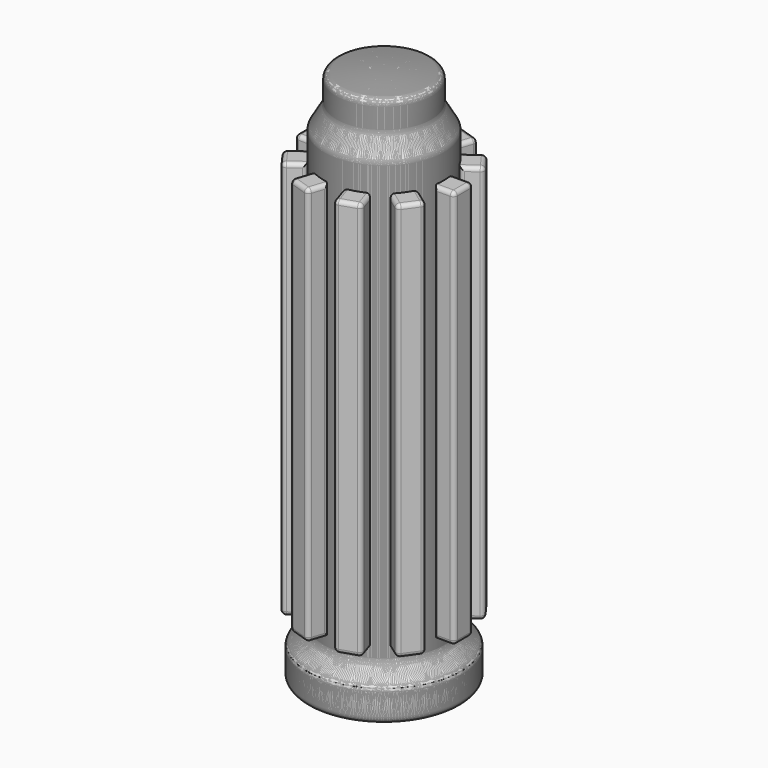
from build123d import *

# Parameters (mm, degrees)
F2_R     = 1.6
F4_W     = 6
F4_H     = 100
F6_R     = 1
F7_COUNT = 10


with BuildPart() as f1:
    # F0 (on Front) → F1 (revolve)
    with BuildSketch(Plane.XZ):
        with BuildLine():
            ThreePointArc((11.8991128484, 133.9508111483), (5.9726393626, 134.7371949452), (0, 135))
            Line((0, 135), (0, 125))
            Line((0, 125), (10.75, 125))
            Line((10.75, 125), (10.75, -0.0073659714))
            Line((10.75, -0.0073659714), (19.325, -0.0073659714))
            Line((19.325, -0.0073659714), (19.325, 7.9926340286))
            Line((19.325, 7.9926340286), (15, 11.6217399335))
            Line((15, 11.6217399335), (15, 121.6217399335))
            Line((15, 121.6217399335), (11.8991128484, 126.9926340286))
            Line((11.8991128484, 126.9926340286), (11.8991128484, 133.9508111483))
        make_face()
    revolve(axis=Axis((0, 0, 105.403020978), (0, 0, 1)))

    # F2
    f2_edges = [f1.edges().sort_by_distance(p)[0] for p in [
        (-11.899113, 0, 133.950811),
        (-15, 0, 121.62174),
        (-11.899113, 0, 126.992634),
        (-15, 0, 11.62174),
        (-19.325, 0, 7.992634),
        (-19.325, 0, -0.007366),
    ]]
    fillet(f2_edges, radius=F2_R)


with BuildPart() as f5:
    # F4 (on offset) → F5 (new body, up to the next surface of F1)
    with BuildSketch(Plane.YZ.offset(20)):
        with Locations((0, 64.9926340286)):
            Rectangle(F4_W, F4_H)
    extrude(until=Until.NEXT, target=f1.part, dir=(-1, 0, 0))

    # F6
    f6_edges = [f5.edges().sort_by_distance(p)[0] for p in [
        (20, 3, 64.992634),
        (20, 0, 114.992634),
        (20, -3, 64.992634),
        (20, 0, 14.992634),
        (17.348469, 3, 114.992634),
        (14.696938, 3, 64.992634),
        (17.348469, 3, 14.992634),
        (17.348469, -3, 14.992634),
        (14.696938, -3, 64.992634),
        (17.348469, -3, 114.992634),
    ]]
    fillet(f6_edges, radius=F6_R)


with BuildPart() as f7_1:
    # F7: instance of F5
    add(f5.part.rotate(Axis((0, 0, 11.6217399335), (0, 0, -1)), 1 * 360 / F7_COUNT))


with BuildPart() as f7_2:
    # F7: instance of F5
    add(f5.part.rotate(Axis((0, 0, 11.6217399335), (0, 0, -1)), 2 * 360 / F7_COUNT))


with BuildPart() as f7_3:
    # F7: instance of F5
    add(f5.part.rotate(Axis((0, 0, 11.6217399335), (0, 0, -1)), 3 * 360 / F7_COUNT))


with BuildPart() as f7_4:
    # F7: instance of F5
    add(f5.part.rotate(Axis((0, 0, 11.6217399335), (0, 0, -1)), 4 * 360 / F7_COUNT))


with BuildPart() as f7_5:
    # F7: instance of F5
    add(f5.part.rotate(Axis((0, 0, 11.6217399335), (0, 0, -1)), 5 * 360 / F7_COUNT))


with BuildPart() as f7_6:
    # F7: instance of F5
    add(f5.part.rotate(Axis((0, 0, 11.6217399335), (0, 0, -1)), 6 * 360 / F7_COUNT))


with BuildPart() as f7_7:
    # F7: instance of F5
    add(f5.part.rotate(Axis((0, 0, 11.6217399335), (0, 0, -1)), 7 * 360 / F7_COUNT))


with BuildPart() as f7_8:
    # F7: instance of F5
    add(f5.part.rotate(Axis((0, 0, 11.6217399335), (0, 0, -1)), 8 * 360 / F7_COUNT))


with BuildPart() as f7_9:
    # F7: instance of F5
    add(f5.part.rotate(Axis((0, 0, 11.6217399335), (0, 0, -1)), 9 * 360 / F7_COUNT))


with BuildPart() as f7_10:
    # F7: instance of F1
    add(f1.part.rotate(Axis((0, 0, 11.6217399335), (0, 0, -1)), 1 * 360 / F7_COUNT))


with BuildPart() as f7_11:
    # F7: instance of F1
    add(f1.part.rotate(Axis((0, 0, 11.6217399335), (0, 0, -1)), 2 * 360 / F7_COUNT))


with BuildPart() as f7_12:
    # F7: instance of F1
    add(f1.part.rotate(Axis((0, 0, 11.6217399335), (0, 0, -1)), 3 * 360 / F7_COUNT))


with BuildPart() as f7_13:
    # F7: instance of F1
    add(f1.part.rotate(Axis((0, 0, 11.6217399335), (0, 0, -1)), 4 * 360 / F7_COUNT))


with BuildPart() as f7_14:
    # F7: instance of F1
    add(f1.part.rotate(Axis((0, 0, 11.6217399335), (0, 0, -1)), 5 * 360 / F7_COUNT))


with BuildPart() as f7_15:
    # F7: instance of F1
    add(f1.part.rotate(Axis((0, 0, 11.6217399335), (0, 0, -1)), 6 * 360 / F7_COUNT))


with BuildPart() as f7_16:
    # F7: instance of F1
    add(f1.part.rotate(Axis((0, 0, 11.6217399335), (0, 0, -1)), 7 * 360 / F7_COUNT))


with BuildPart() as f7_17:
    # F7: instance of F1
    add(f1.part.rotate(Axis((0, 0, 11.6217399335), (0, 0, -1)), 8 * 360 / F7_COUNT))


with BuildPart() as f7_18:
    # F7: instance of F1
    add(f1.part.rotate(Axis((0, 0, 11.6217399335), (0, 0, -1)), 9 * 360 / F7_COUNT))


solid = Compound([f1.part, f5.part, f7_1.part, f7_2.part, f7_3.part, f7_4.part, f7_5.part, f7_6.part, f7_7.part, f7_8.part, f7_9.part, f7_10.part, f7_11.part, f7_12.part, f7_13.part, f7_14.part, f7_15.part, f7_16.part, f7_17.part, f7_18.part])
